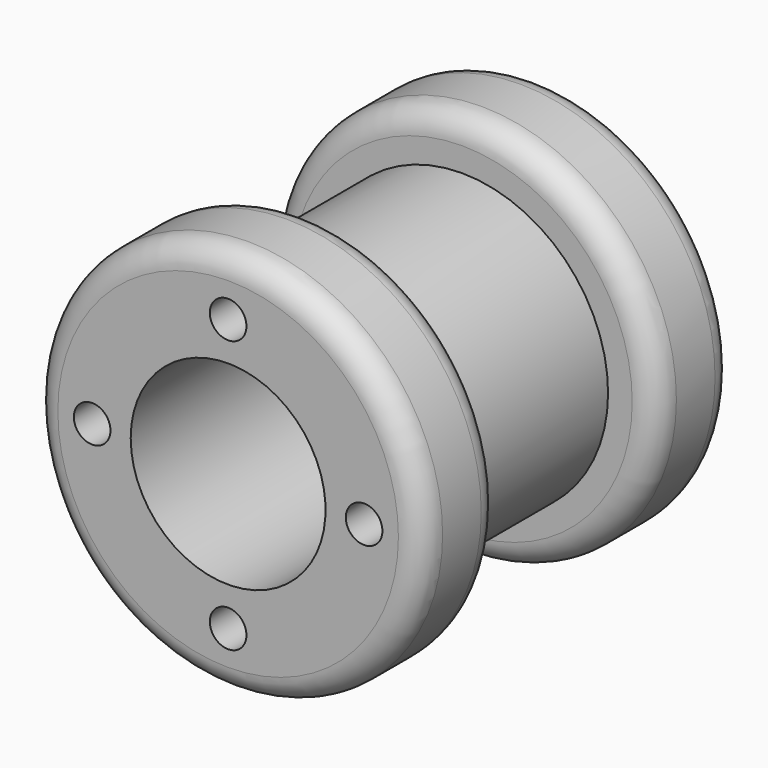
from build123d import *

# Parameters (mm, degrees)
F0_R      = 12.7
F1_DEPTH  = 6.35
F2_R      = 9.525
F3_DEPTH  = 12.7
F4_R      = 12.7
F5_DEPTH  = 6.35
F6_R      = 1.6002
F8_D      = 12.7
F10_D     = 2.3876
F10_DEPTH = 3.175
F10_TIP   = 0.717307407


with BuildPart() as f1:
    # F0 (on Front) → F1 (new body)
    with BuildSketch(Plane.XZ):
        Circle(F0_R)
    extrude(amount=F1_DEPTH)

    # F2 (on face) → F3 (join)
    with BuildSketch(Plane(origin=(0, 0, 0), x_dir=(-1, 0, 0), z_dir=(0, 1, 0))):
        Circle(F2_R)
    extrude(amount=F3_DEPTH)

    # F4 (on face) → F5 (join)
    with BuildSketch(Plane(origin=(0, 12.7, 0), x_dir=(-1, 0, 0), z_dir=(0, 1, 0))):
        Circle(F4_R)
    extrude(amount=F5_DEPTH)

    # F6
    f6_edges = [f1.edges().sort_by_distance(p)[0] for p in [
        (-12.7, -6.35, 0),
        (12.7, 19.05, 0),
        (-12.7, 0, 0),
        (12.7, 12.7, 0),
    ]]
    fillet(f6_edges, radius=F6_R)

    # F8 (through all)
    with Locations(Plane.XZ.offset(6.35)):
        with Locations((0, 0)):
            Hole(F8_D / 2)

    # F10
    with Locations(Plane.XZ.offset(6.35)):
        with Locations((-8.8637527078, 0), (0, -8.8637527078), (8.8637527078, 0), (0, 8.8637527078)):
            Hole(F10_D / 2, depth=F10_DEPTH)
            with Locations((0, 0, -(F10_DEPTH + F10_TIP / 2))):  # 118° drill point
                Cone(0, F10_D / 2, F10_TIP, mode=Mode.SUBTRACT)


solid = f1.part
